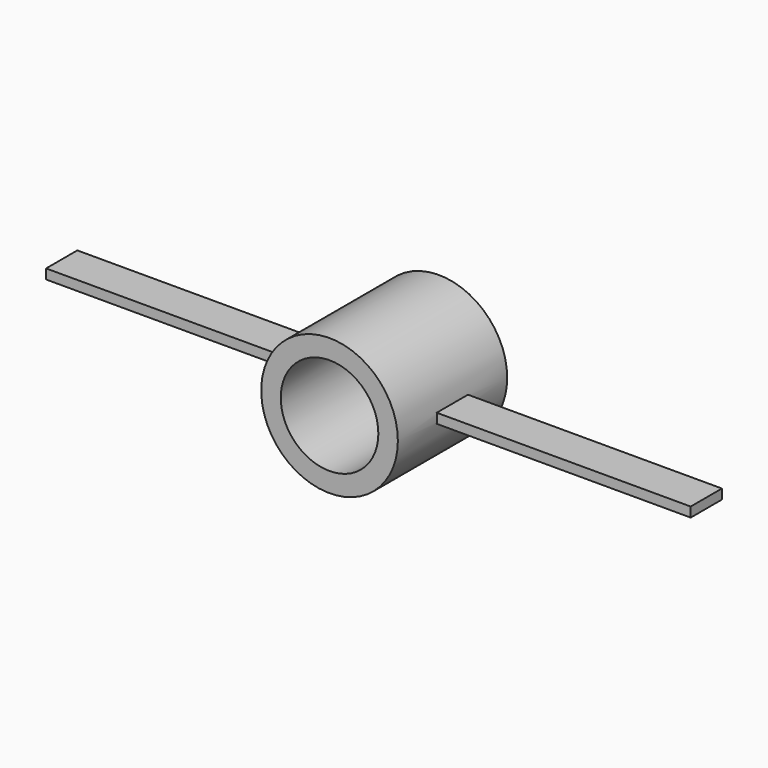
from build123d import *

# Parameters (mm, degrees)
F0_R      = 5.55625
F0_R_2    = 3.96875
F1_DEPTH  = 5.55625
F3_DEPTH  = 5.55625
F4_DEPTH  = 5.55625
F2_W      = 20.6375
F2_H      = 3.175
F2_W_2    = 20.66925
F5_DEPTH  = 0.396875
F6_DEPTH  = 0.396875
F7_DEPTH  = 0.396875
F8_DEPTH  = 0.396875
F9_DEPTH  = 0.0141922326
F10_DEPTH = 0.0141922326


with BuildPart() as f1:
    # F0 (on Front) → F1 (new body)
    with BuildSketch(Plane.XZ):
        Circle(F0_R)
        Circle(F0_R_2, mode=Mode.SUBTRACT)
    extrude(amount=F1_DEPTH)

    # F0 (on Front) → F3 (join)
    with BuildSketch(Plane.XZ):
        Circle(F0_R)
        Circle(F0_R_2, mode=Mode.SUBTRACT)
    extrude(amount=F3_DEPTH)

    # F4 (add): a face of the model
    f4_faces = [f1.faces().sort_by_distance(p)[0] for p in [
        (-5.3990955179, 0, 0),
    ]]
    extrude(f4_faces, amount=F4_DEPTH)

    # F2 (on Top) → F5 (join)
    with BuildSketch(Plane.XY):
        with Locations((15.875, 0)):
            Rectangle(F2_W, F2_H)
        with Locations((-15.890875, 0)):
            Rectangle(F2_W_2, F2_H)
    extrude(amount=F5_DEPTH)

    # F6 (add): a face of the model
    f6_faces = [f1.faces().sort_by_distance(p)[0] for p in [
        (15.875, 0, 0),
    ]]
    extrude(f6_faces, amount=F6_DEPTH)

    # F2 (on Top) → F7 (join)
    with BuildSketch(Plane.XY):
        with Locations((-15.890875, 0)):
            Rectangle(F2_W_2, F2_H)
    extrude(amount=F7_DEPTH)

    # F8 (add): a face of the model
    f8_faces = [f1.faces().sort_by_distance(p)[0] for p in [
        (-15.890875, 0, 0),
    ]]
    extrude(f8_faces, amount=F8_DEPTH)

    # F9 (add, through all): faces of the model
    f9_faces = [f1.faces().sort_by_distance(p)[0] for p in [
        (5.55625, 0, 0.1984375),
        (5.55625, 0, -0.1984375),
    ]]
    extrude(f9_faces, amount=F9_DEPTH)

    # F10 (add, through all): faces of the model
    f10_faces = [f1.faces().sort_by_distance(p)[0] for p in [
        (-5.55625, 0, 0.1984375),
        (-5.55625, 0, -0.1984375),
    ]]
    extrude(f10_faces, amount=F10_DEPTH)

    # F11: union 


solid = f1.part
